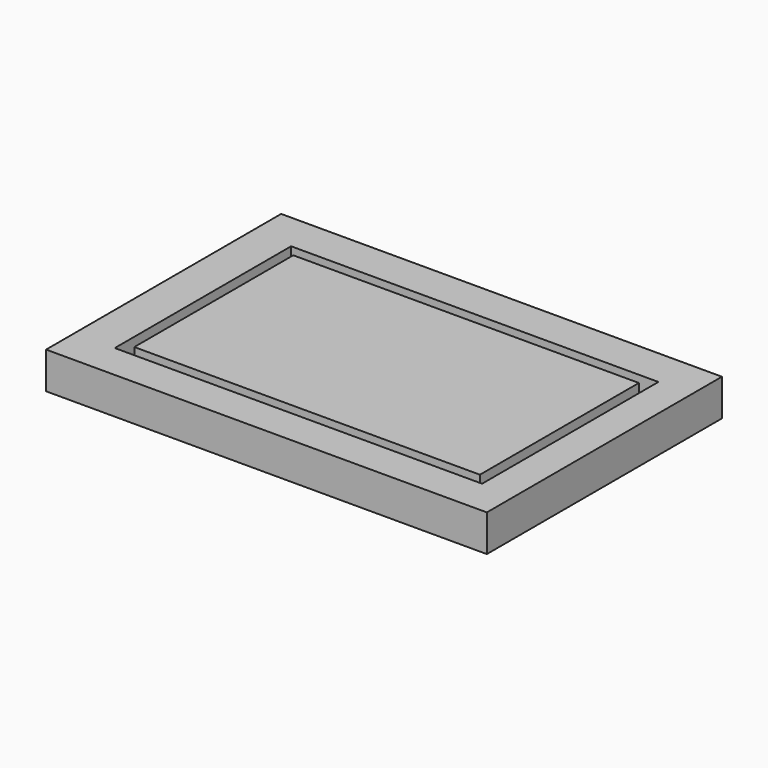
from build123d import *

# Parameters (mm, degrees)
F0_W     = 304.8
F0_H     = 203.2
F1_DEPTH = 25.4
F2_W     = 254
F2_H     = 152.400005
F2_W_2   = 239
F2_H_2   = 137.400005
F3_DEPTH = 12.7


with BuildPart() as f1:
    # F0 (on Top) → F1 (new body)
    with BuildSketch(Plane.XY):
        with Locations((152.4, 101.6)):
            Rectangle(F0_W, F0_H)
    extrude(amount=F1_DEPTH)

    # F2 (on face) → F3 (cut)
    with BuildSketch(Plane.XY.offset(25.4)):
        with Locations((154.842104, 100.782433)):
            Rectangle(F2_W, F2_H)
        with Locations((154.842104, 100.782433)):
            Rectangle(F2_W_2, F2_H_2, mode=Mode.SUBTRACT)
    extrude(amount=-F3_DEPTH, mode=Mode.SUBTRACT)


solid = f1.part
